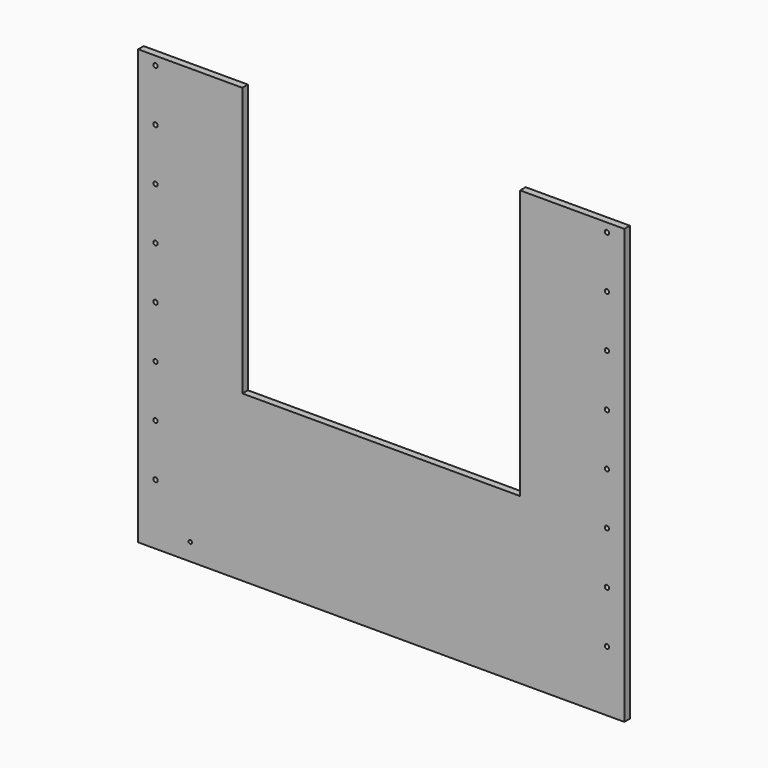
from build123d import *

# Parameters (mm, degrees)
F1_DEPTH = 5.08
F3_DEPTH = 25.4
F4_R     = 1.5875
F5_DEPTH = 25.4


with BuildPart() as f1:
    # F0 (on Front) → F1 (new body)
    with BuildSketch(Plane.XZ):
        Polygon((-355.6, 0), (0, 0), (0, 317.5), (-76.2, 317.5), (-76.2, 120.65), (-279.4, 120.65), (-279.4, 317.5), (-355.6, 317.5), align=None)
    extrude(amount=F1_DEPTH)

    # F2 (on face) → F3 (cut)
    with BuildSketch(Plane.XZ.offset(5.08)):
        with BuildLine():
            ThreePointArc((-316.23, 12.7), (-318.398026, 13.598026), (-317.5, 11.43))
            ThreePointArc((-317.5, 11.43), (-316.601974, 11.801974), (-316.23, 12.7))
        make_face()
    extrude(amount=-F3_DEPTH, mode=Mode.SUBTRACT)

    # F4 (on face) → F5 (cut)
    with BuildSketch(Plane.XZ.offset(5.08)):
        with BuildLine():
            ThreePointArc((-341.3125, 311.15), (-341.777468, 312.272532), (-342.9, 312.7375))
            ThreePointArc((-342.9, 312.7375), (-344.022532, 310.027468), (-341.3125, 311.15))
        make_face()
        with Locations((-342.9, 273.05)):
            Circle(F4_R)
        with Locations((-342.9, 234.95)):
            Circle(F4_R)
        with Locations((-342.9, 196.85)):
            Circle(F4_R)
        with Locations((-342.9, 158.75)):
            Circle(F4_R)
        with Locations((-342.9, 120.65)):
            Circle(F4_R)
        with Locations((-342.9, 82.55)):
            Circle(F4_R)
        with Locations((-342.9, 44.45)):
            Circle(F4_R)
        with Locations((-12.7, 44.45)):
            Circle(F4_R)
        with Locations((-12.7, 82.55)):
            Circle(F4_R)
        with Locations((-12.7, 120.65)):
            Circle(F4_R)
        with Locations((-12.7, 158.75)):
            Circle(F4_R)
        with Locations((-12.7, 196.85)):
            Circle(F4_R)
        with Locations((-12.7, 234.95)):
            Circle(F4_R)
        with Locations((-12.7, 273.05)):
            Circle(F4_R)
        with BuildLine():
            ThreePointArc((-11.1125, 311.15), (-11.577468, 312.272532), (-12.7, 312.7375))
            ThreePointArc((-12.7, 312.7375), (-13.822532, 310.027468), (-11.1125, 311.15))
        make_face()
    extrude(amount=-F5_DEPTH, mode=Mode.SUBTRACT)


solid = f1.part
